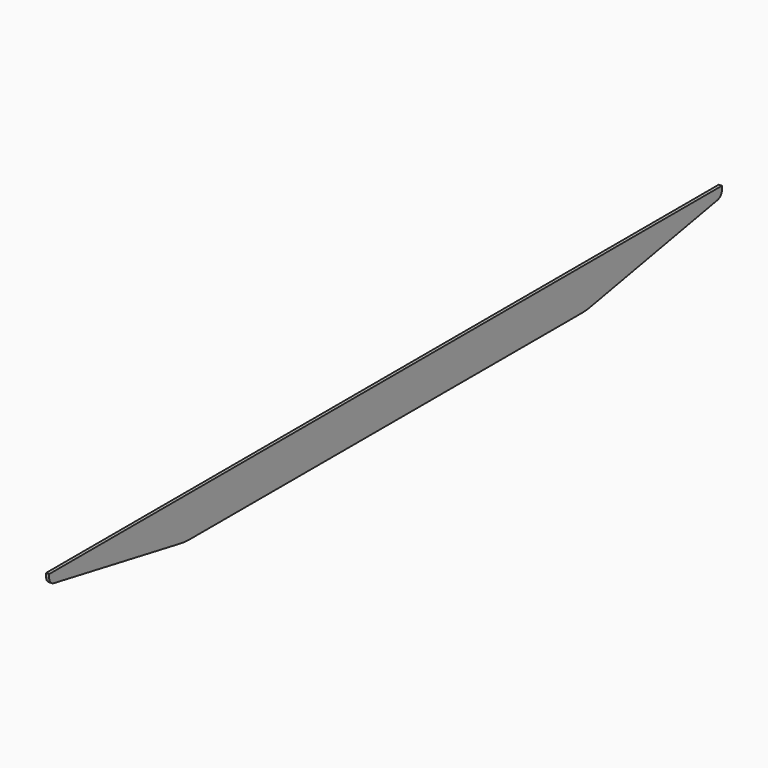
from build123d import *

# Parameters (mm, degrees)
PAD_DEPTH = 1.328


with BuildPart() as part:
    # Sketch → Pad (new body, symmetric)
    with BuildSketch(Plane.YZ):
        with BuildLine():
            Line((-350, 0), (370, 0))
            Line((370, 0), (370, -3))
            ThreePointArc((365.095951, -8.899059), (368.613876, -6.835642), (370, -3))
            Line((365.095951, -8.899059), (229.132925, -34.158821))
            ThreePointArc((220, -35), (224.585791, -34.789261), (229.132925, -34.158821))
            Line((220, -35), (-200, -35))
            ThreePointArc((-209.132925, -34.158821), (-204.585791, -34.789261), (-200, -35))
            Line((-209.132925, -34.158821), (-345.095951, -8.899059))
            ThreePointArc((-350, -3), (-348.613876, -6.835642), (-345.095951, -8.899059))
            Line((-350, -3), (-350, 0))
        make_face()
    extrude(amount=PAD_DEPTH, both=True)


solid = part.part
